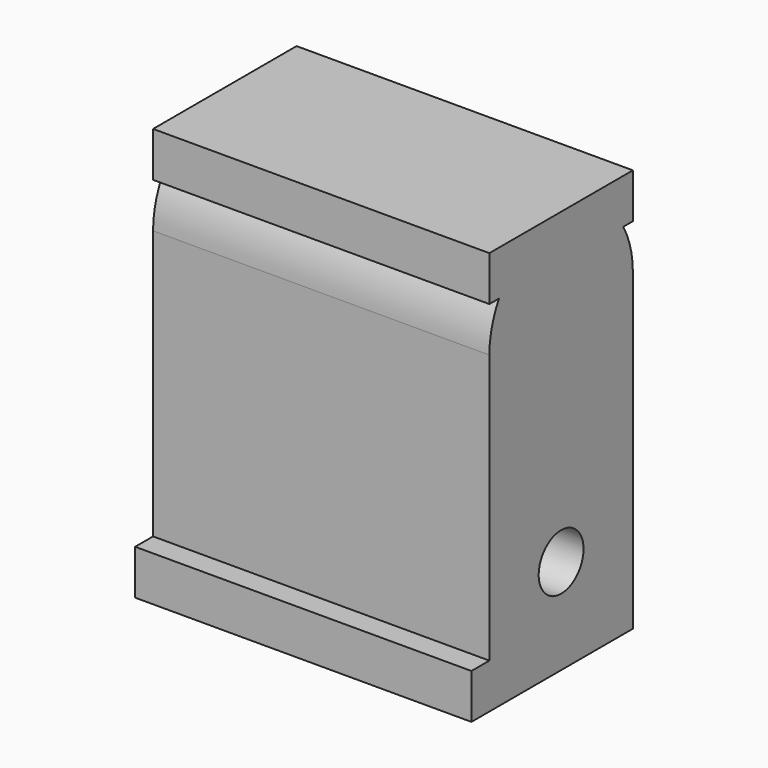
from build123d import *

# Parameters (mm, degrees)
F0_R     = 1.25
F1_DEPTH = 7.5


with BuildPart() as f1:
    # F0 (on Right) → F1 (new body, symmetric)
    with BuildSketch(Plane.YZ):
        with BuildLine():
            Line((-4, 1), (-4, -1))
            Line((-4, -1), (-3.464102, -1))
            ThreePointArc((-3.464102, -1), (-3.863703, -1.964724), (-4, -3))
            Line((-4, -3), (-4, -15))
            Line((-4, -15), (-5, -15))
            Line((-5, -15), (-5, -17))
            Line((-5, -17), (4, -17))
            Line((4, -17), (4, -15))
            Line((4, -15), (4, -3))
            ThreePointArc((4, -3), (3.863703, -1.964724), (3.464102, -1))
            Line((3.464102, -1), (4, -1))
            Line((4, -1), (4, 1))
            Line((4, 1), (-4, 1))
        make_face()
        with Locations((0, -12.75)):
            Circle(F0_R, mode=Mode.SUBTRACT)
    extrude(amount=F1_DEPTH, both=True)


solid = f1.part
